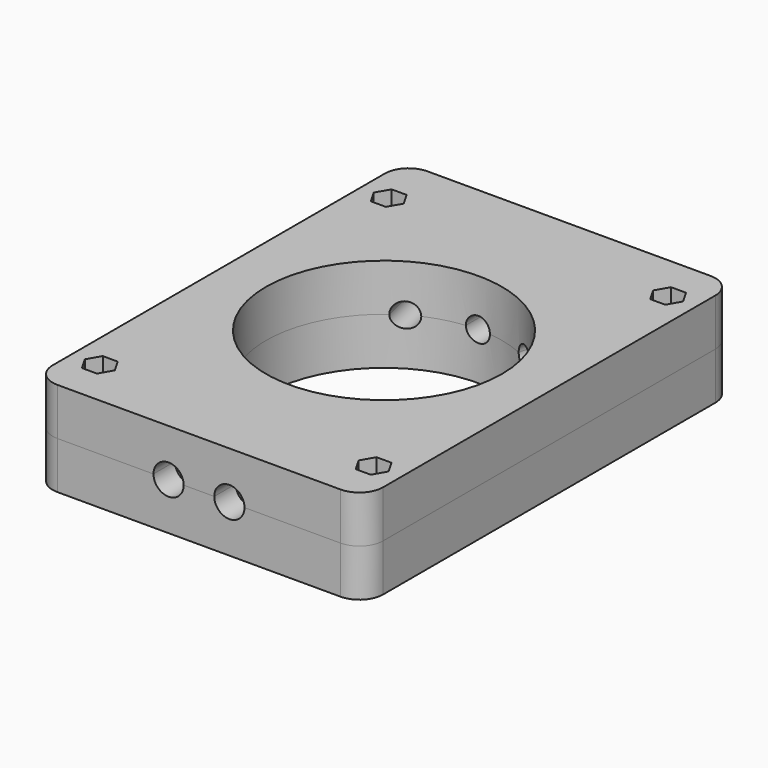
from build123d import *

# Parameters (mm, degrees)
F0_W      = 70
F0_H      = 10
F1_DEPTH  = 49
F2_R      = 25
F3_DEPTH  = 10.001
F4_R      = 3.2
F5_DEPTH  = 5.68
F6_R      = 2.55
F7_DEPTH  = 12
F9_DEPTH  = 1
F12_R     = 3.1
F13_DEPTH = 15
F14_R     = 3.2
F15_DEPTH = 23.4
F16_DEPTH = 23.4
F17_R     = 2.55
F18_DEPTH = 25
F19_R     = 2.55
F20_DEPTH = 25
F21_R     = 2.55
F22_DEPTH = 25
F23_R     = 3.2
F24_DEPTH = 16
F25_R     = 1.5
F26_DEPTH = 25
F29_DEPTH = 4
F30_R     = 5


with BuildPart() as f1:
    # F0 (on Front) → F1 (new body, symmetric)
    with BuildSketch(Plane.XZ):
        Rectangle(F0_W, F0_H)
    extrude(amount=F1_DEPTH, both=True)

    # F2 (on face) → F3 (cut, through all)
    with BuildSketch(Plane.XY.offset(5)):
        Circle(F2_R)
    extrude(amount=-F3_DEPTH, mode=Mode.SUBTRACT)

    # F4 (on face) → F5 (cut)
    with BuildSketch(Plane.XZ.offset(49)):
        with Locations((-6.44, 5)):
            Circle(F4_R)
        with Locations((6.44, 5)):
            Circle(F4_R)
    extrude(amount=-F5_DEPTH, mode=Mode.SUBTRACT)

    # F6 (on face) → F7 (cut)
    with BuildSketch(Plane.XZ.offset(43.32)):
        with Locations((-6.44, 5)):
            Circle(F6_R)
        with Locations((6.44, 5)):
            Circle(F6_R)
    extrude(amount=-F7_DEPTH, mode=Mode.SUBTRACT)

    # F8 (on face) → F9 (cut)
    with BuildSketch(Plane.XY.offset(5)):
        Polygon((22.256864, -11.385605), (-22.256864, -11.385605), (-8.99, -37.32), (8.99, -37.32), align=None)
    extrude(amount=-F9_DEPTH, mode=Mode.SUBTRACT)

    # F12 (on face) → F13 (cut)
    with BuildSketch(Plane(origin=(-12.511197, 54.191949, 0), x_dir=(0.97437, 0.224951, 0), z_dir=(0.224951, -0.97437, 0))):
        with Locations((-7.480351, 5)):
            Circle(F12_R)
    extrude(amount=F13_DEPTH, mode=Mode.SUBTRACT)

    # F14 (on face) → F15 (cut)
    with BuildSketch(Plane(origin=(12.511197, 54.191949, 0), x_dir=(0.97437, -0.224951, 0), z_dir=(-0.224951, -0.97437, 0))):
        with Locations((7.480351, 5)):
            Circle(F14_R)
    extrude(amount=F15_DEPTH, mode=Mode.SUBTRACT)

    # F12 (on face) → F16 (cut)
    with BuildSketch(Plane(origin=(-12.511197, 54.191949, 0), x_dir=(0.97437, 0.224951, 0), z_dir=(0.224951, -0.97437, 0))):
        with Locations((-7.480351, 5)):
            Circle(F12_R)
    extrude(amount=F16_DEPTH, mode=Mode.SUBTRACT)

    # F17 (on face) → F18 (cut)
    with BuildSketch(Plane(origin=(-7.247343, 31.39169, 0), x_dir=(-0.97437, -0.224951, 0), z_dir=(-0.224951, 0.97437, 0))):
        with Locations((7.480351, 5)):
            Circle(F17_R)
    extrude(amount=-F18_DEPTH, mode=Mode.SUBTRACT)

    # F19 (on face) → F20 (cut)
    with BuildSketch(Plane(origin=(7.247343, 31.39169, 0), x_dir=(-0.97437, 0.224951, 0), z_dir=(0.224951, 0.97437, 0))):
        with Locations((-7.480351, 5)):
            Circle(F19_R)
    extrude(amount=-F20_DEPTH, mode=Mode.SUBTRACT)

    # F21 (on face) → F22 (cut)
    with BuildSketch(Plane(origin=(0, 49, 0), x_dir=(-1, 0, 0), z_dir=(0, 1, 0))):
        with Locations((0, 5)):
            Circle(F21_R)
    extrude(amount=-F22_DEPTH, mode=Mode.SUBTRACT)

    # F23 (on face) → F24 (cut)
    with BuildSketch(Plane(origin=(0, 49, 0), x_dir=(-1, 0, 0), z_dir=(0, 1, 0))):
        with Locations((0, 5)):
            Circle(F23_R)
    extrude(amount=-F24_DEPTH, mode=Mode.SUBTRACT)

    # F25 (on face) → F26 (cut)
    with BuildSketch(Plane.XY.offset(5)):
        with Locations((-29, 37.5)):
            Circle(F25_R)
        with Locations((29, 39)):
            Circle(F25_R)
        with Locations((-29, -39)):
            Circle(F25_R)
        with Locations((29, -39)):
            Circle(F25_R)
    extrude(amount=-F26_DEPTH, mode=Mode.SUBTRACT)

    # F30
    f30_edges = [f1.edges().sort_by_distance(p)[0] for p in [
        (-35, -49, 0),
        (35, -49, 0),
        (35, 49, 0),
        (-35, 49, 0),
    ]]
    fillet(f30_edges, radius=F30_R)


with BuildPart() as f27_1:
    # F27: instance of F1
    add(f1.part.mirror(Plane(origin=(8.124862, 37.358806, 5), x_dir=(1, 0, 0), z_dir=(0, 0, 1))))

    # F28 (on face) → F29 (cut)
    with BuildSketch(Plane.XY.offset(15)):
        Polygon((-27.412287, 34.75), (-25.824574, 37.5), (-27.412287, 40.25), (-30.587713, 40.25), (-32.175426, 37.5), (-30.587713, 34.75), align=None)
        Polygon((30.587713, 36.25), (32.175426, 39), (30.587713, 41.75), (27.412287, 41.75), (25.824574, 39), (27.412287, 36.25), align=None)
        Polygon((-27.412287, -41.75), (-25.824574, -39), (-27.412287, -36.25), (-30.587713, -36.25), (-32.175426, -39), (-30.587713, -41.75), align=None)
        Polygon((27.412287, -41.75), (30.587713, -41.75), (32.175426, -39), (30.587713, -36.25), (27.412287, -36.25), (25.824574, -39), align=None)
    extrude(amount=-F29_DEPTH, mode=Mode.SUBTRACT)


solid = Compound([f1.part, f27_1.part])
